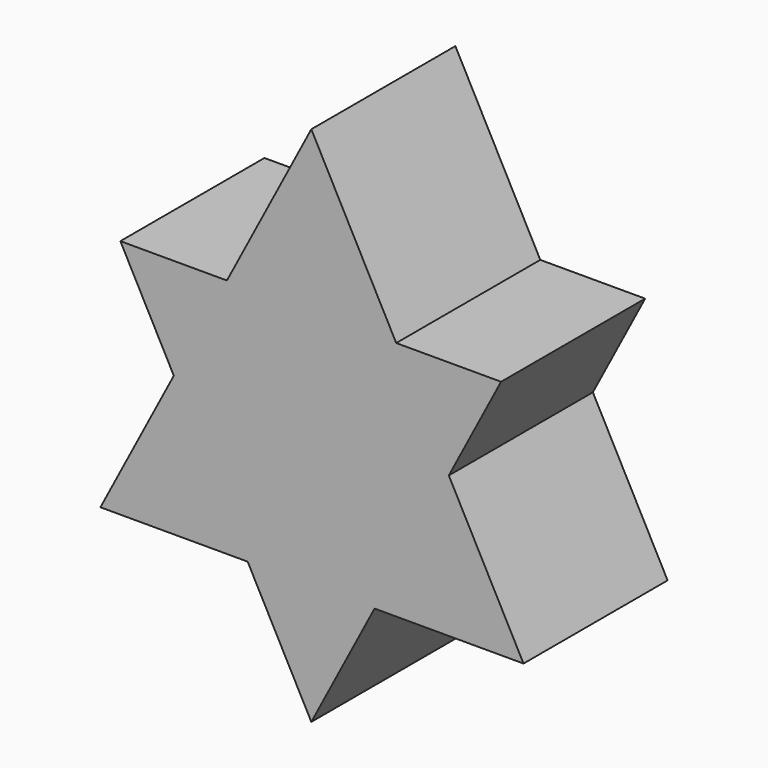
from build123d import *

# Parameters (mm, degrees)
F1_DEPTH = 25.4


with BuildPart() as f1:
    # F0 (on Front) → F1 (new body)
    with BuildSketch(Plane.XZ):
        Polygon((-19.3941438295, 19.7015106075), (-29.7457839583, 0), (-8.9777705904, 0), align=None)
        Polygon((-26.9333117711, 33.9610800147), (-19.3941438295, 19.7015106075), (-11.9018284514, 33.9610800147), align=None)
        Polygon((-11.9018284514, 33.9610800147), (-19.3941438295, 19.7015106075), (-8.9777705904, 0), (8.9219777534, 0), (19.3941438295, 19.9308987236), (11.9762555339, 33.9610800147), align=None)
        Polygon((8.9219777534, 0), (-8.9777705904, 0), (0, -16.9805400074), align=None)
        Polygon((0, 56.6129493385), (-11.9018284514, 33.9610800147), (11.9762555339, 33.9610800147), align=None)
        Polygon((19.3941438295, 19.9308987236), (8.9219777534, 0), (29.9317967147, 0), align=None)
        Polygon((26.7659332603, 33.9610800147), (11.9762555339, 33.9610800147), (19.3941438295, 19.9308987236), align=None)
    extrude(amount=F1_DEPTH)


solid = f1.part
